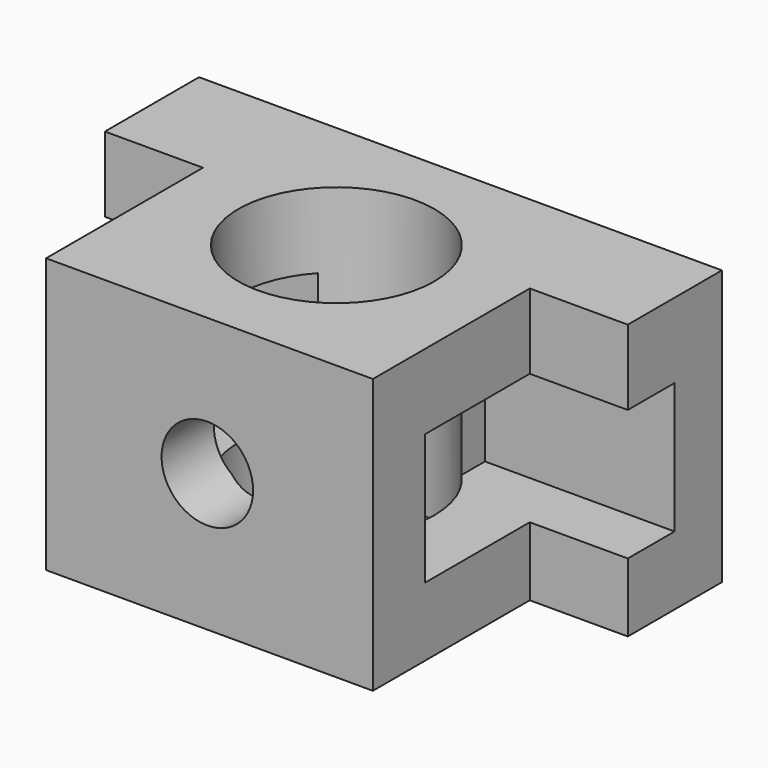
from build123d import *

# Parameters (mm, degrees)
F0_W      = 80
F0_H      = 42
F1_DEPTH  = 18
F2_W      = 50
F2_H      = 42
F3_DEPTH  = 30
F4_R      = 7
F5_DEPTH  = 48
F6_R      = 15
F7_DEPTH  = 42
F9_W      = 8.9407891482
F9_H      = 20
F10_DEPTH = 29
F11_W     = 20
F11_H     = 20
F12_DEPTH = 29
F13_W     = 20
F13_H     = 20
F14_DEPTH = 29
F15_W     = 9
F15_H     = 20
F16_DEPTH = 29


with BuildPart() as f1:
    # F0 (on Front) → F1 (new body)
    with BuildSketch(Plane.XZ):
        with Locations((-5.7401350141, 5.3092095107)):
            Rectangle(F0_W, F0_H)
    extrude(amount=F1_DEPTH)

    # F2 (on face) → F3 (join)
    with BuildSketch(Plane.XZ.offset(18)):
        with Locations((-5.7401350141, 5.3092095107)):
            Rectangle(F2_W, F2_H)
    extrude(amount=F3_DEPTH)

    # F4 (on face) → F5 (cut)
    with BuildSketch(Plane.XZ.offset(48)):
        with Locations((-6.0690785758, 5.3388164379)):
            Circle(F4_R)
    extrude(amount=-F5_DEPTH, mode=Mode.SUBTRACT)

    # F6 (on face) → F7 (cut)
    with BuildSketch(Plane(origin=(0, 0, -15.6907904893), x_dir=(1, 0, 0), z_dir=(0, 0, -1))):
        with Locations((-5.7730260305, 23.694081232)):
            Circle(F6_R)
    extrude(amount=-F7_DEPTH, mode=Mode.SUBTRACT)

    # F9 (on face) → F10 (cut)
    with BuildSketch(Plane.YZ.offset(34.2598649859)):
        with Locations((-13.5296054259, 4.8190790601)):
            Rectangle(F9_W, F9_H)
    extrude(amount=-F10_DEPTH, mode=Mode.SUBTRACT)

    # F11 (on face) → F12 (cut)
    with BuildSketch(Plane.YZ.offset(19.2598649859)):
        with Locations((-28, 4.8190790601)):
            Rectangle(F11_W, F11_H)
    extrude(amount=-F12_DEPTH, mode=Mode.SUBTRACT)

    # F13 (on face) → F14 (cut)
    with BuildSketch(Plane(origin=(-30.7401350141, 0, 0), x_dir=(0, -1, 0), z_dir=(-1, 0, 0))):
        with Locations((28, 4.8190776631)):
            Rectangle(F13_W, F13_H)
    extrude(amount=-F14_DEPTH, mode=Mode.SUBTRACT)

    # F15 (on face) → F16 (cut)
    with BuildSketch(Plane(origin=(-45.7401350141, 0, 0), x_dir=(0, -1, 0), z_dir=(-1, 0, 0))):
        with Locations((13.5, 4.8190776631)):
            Rectangle(F15_W, F15_H)
    extrude(amount=-F16_DEPTH, mode=Mode.SUBTRACT)


solid = f1.part
